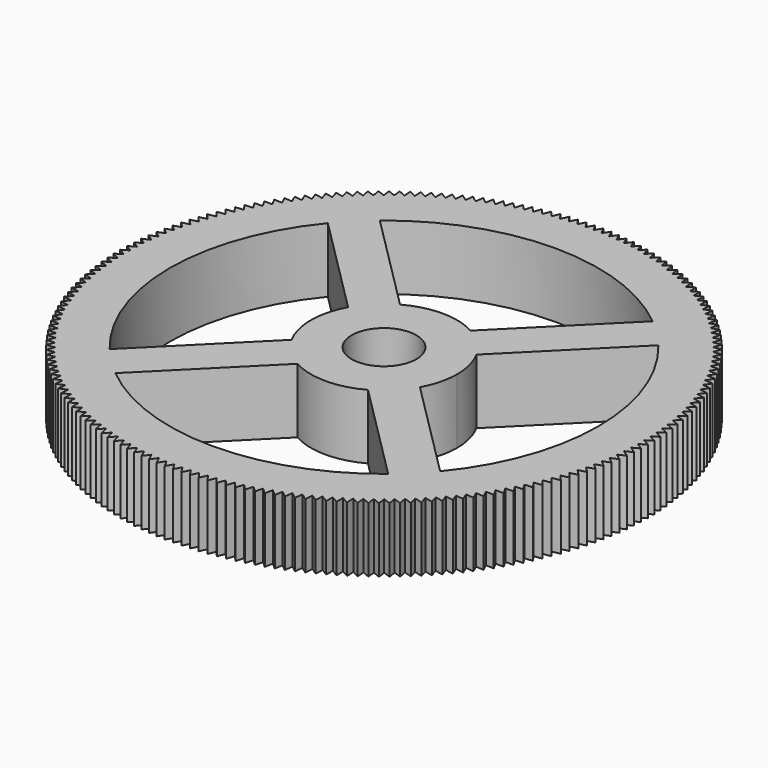
from build123d import *

# Parameters (mm, degrees)
F0_R     = 3.175
F1_DEPTH = 6.35


with BuildPart() as f1:
    # F0 (on Top) → F1 (new body)
    with BuildSketch(Plane.XY):
        Polygon((-0.8123144228, -25.848264049), (-0.3954962942, -25.176005228), (0, -25.8610249037), (0.3954962942, -25.176005228), (0.8123144228, -25.848264049), (1.1860985754, -25.1511595504), (1.6238271893, -25.8099940784), (1.9755303205, -25.1014927148), (2.4337374344, -25.7462527598), (2.7630124557, -25.0270537365), (3.2412458745, -25.657102998), (3.5477678312, -24.9279160777), (4.0455555962, -25.5426327732), (4.3290219882, -24.8041775753), (4.845872843, -25.4029550537), (5.1060039231, -24.6559603442), (5.6414077983, -25.2382076844), (5.8779468486, -24.4834106571), (6.4313753653, -25.0485532512), (6.6440889502, -24.2866987996), (7.2149959412, -24.8341789201), (7.4036741382, -24.0660189025), (7.9914961872, -24.5952962527), (8.1559527937, -23.8215887503), (8.7601097913, -24.3321409973), (8.9001825084, -23.553649566), (9.5200782246, -24.0449728564), (9.6356288175, -23.2624657732), (10.2706514902, -23.7340752303), (10.3615659243, -22.9483247353), (11.0110888626, -23.3997549374), (11.0772774165, -22.6115364714), (11.7406596198, -23.0423419114), (11.7820569733, -22.2524333509), (12.4586437634, -22.6621888759), (12.4752090623, -21.8713697653), (13.1643327297, -22.259670996), (13.1560496261, -21.4687217783), (13.857030089, -21.8351855083), (13.8239067573, -21.0448867549), (14.5360522326, -21.3891513287), (14.4781213615, -20.600282969), (15.2007290476, -20.922008639), (15.1180478078, -20.1353491909), (15.8504045782, -20.4342184528), (15.7430545662, -19.6505442541), (16.4844376731, -19.92626216), (16.3525248305, -19.1463466026), (17.1022026182, -19.3986410522), (16.945857127, -18.6232538186), (17.7030897542, -18.8518758277), (17.5224659084, -18.0817821314), (18.2865060778, -18.2865060778), (18.0817821314, -17.5224659084), (18.8518758277, -17.7030897542), (18.6232538186, -16.945857127), (19.3986410522, -17.1022026182), (19.1463466026, -16.3525248305), (19.92626216, -16.4844376731), (19.6505442541, -15.7430545662), (20.4342184528, -15.8504045782), (20.1353491909, -15.1180478078), (20.922008639, -15.2007290476), (20.600282969, -14.4781213615), (21.3891513287, -14.5360522326), (21.0448867549, -13.8239067573), (21.8351855083, -13.857030089), (21.4687217783, -13.1560496261), (22.259670996, -13.1643327297), (21.8713697653, -12.4752090623), (22.6621888759, -12.4586437634), (22.2524333509, -11.7820569733), (23.0423419114, -11.7406596198), (22.6115364714, -11.0772774165), (23.3997549374, -11.0110888626), (22.9483247353, -10.3615659243), (23.7340752303, -10.2706514902), (23.2624657732, -9.6356288175), (24.0449728564, -9.5200782246), (23.553649566, -8.9001825084), (24.3321409973, -8.7601097913), (23.8215887503, -8.1559527937), (24.5952962527, -7.9914961872), (24.0660189025, -7.4036741382), (24.8341789201, -7.2149959412), (24.2866987996, -6.6440889502), (25.0485532512, -6.4313753653), (24.4834106571, -5.8779468486), (25.2382076844, -5.6414077983), (24.6559603442, -5.1060039231), (25.4029550537, -4.845872843), (24.8041775753, -4.3290219882), (25.5426327732, -4.0455555962), (24.9279160777, -3.5477678312), (25.657102998, -3.2412458745), (25.0270537365, -2.7630124557), (25.7462527598, -2.4337374344), (25.1014927148, -1.9755303205), (25.8099940784, -1.6238271893), (25.1511595504, -1.1860985754), (25.848264049, -0.8123144228), (25.176005228, -0.3954962942), (25.8610249037, 0), (25.176005228, 0.3954962942), (25.848264049, 0.8123144228), (25.1511595504, 1.1860985754), (25.8099940784, 1.6238271893), (25.1014927148, 1.9755303205), (25.7462527598, 2.4337374344), (25.0270537365, 2.7630124557), (25.657102998, 3.2412458745), (24.9279160777, 3.5477678312), (25.5426327732, 4.0455555962), (24.8041775753, 4.3290219882), (25.4029550537, 4.845872843), (24.6559603442, 5.1060039231), (25.2382076844, 5.6414077983), (24.4834106571, 5.8779468486), (25.0485532512, 6.4313753653), (24.2866987996, 6.6440889502), (24.8341789201, 7.2149959412), (24.0660189025, 7.4036741382), (24.5952962527, 7.9914961872), (23.8215887503, 8.1559527937), (24.3321409973, 8.7601097913), (23.553649566, 8.9001825084), (24.0449728564, 9.5200782246), (23.2624657732, 9.6356288175), (23.7340752303, 10.2706514902), (22.9483247353, 10.3615659243), (23.3997549374, 11.0110888626), (22.6115364714, 11.0772774165), (23.0423419114, 11.7406596198), (22.2524333509, 11.7820569733), (22.6621888759, 12.4586437634), (21.8713697653, 12.4752090623), (22.259670996, 13.1643327297), (21.4687217783, 13.1560496261), (21.8351855083, 13.857030089), (21.0448867549, 13.8239067573), (21.3891513287, 14.5360522326), (20.600282969, 14.4781213615), (20.922008639, 15.2007290476), (20.1353491909, 15.1180478078), (20.4342184528, 15.8504045782), (19.6505442541, 15.7430545662), (19.92626216, 16.4844376731), (19.1463466026, 16.3525248305), (19.3986410522, 17.1022026182), (18.6232538186, 16.945857127), (18.8518758277, 17.7030897542), (18.0817821314, 17.5224659084), (18.2865060778, 18.2865060778), (17.5224659084, 18.0817821314), (17.7030897542, 18.8518758277), (16.945857127, 18.6232538186), (17.1022026182, 19.3986410522), (16.3525248305, 19.1463466026), (16.4844376731, 19.92626216), (15.7430545662, 19.6505442541), (15.8504045782, 20.4342184528), (15.1180478078, 20.1353491909), (15.2007290476, 20.922008639), (14.4781213615, 20.600282969), (14.5360522326, 21.3891513287), (13.8239067573, 21.0448867549), (13.857030089, 21.8351855083), (13.1560496261, 21.4687217783), (13.1643327297, 22.259670996), (12.4752090623, 21.8713697653), (12.4586437634, 22.6621888759), (11.7820569733, 22.2524333509), (11.7406596198, 23.0423419114), (11.0772774165, 22.6115364714), (11.0110888626, 23.3997549374), (10.3615659243, 22.9483247353), (10.2706514902, 23.7340752303), (9.6356288175, 23.2624657732), (9.5200782246, 24.0449728564), (8.9001825084, 23.553649566), (8.7601097913, 24.3321409973), (8.1559527937, 23.8215887503), (7.9914961872, 24.5952962527), (7.4036741382, 24.0660189025), (7.2149959412, 24.8341789201), (6.6440889502, 24.2866987996), (6.4313753653, 25.0485532512), (5.8779468486, 24.4834106571), (5.6414077983, 25.2382076844), (5.1060039231, 24.6559603442), (4.845872843, 25.4029550537), (4.3290219882, 24.8041775753), (4.0455555962, 25.5426327732), (3.5477678312, 24.9279160777), (3.2412458745, 25.657102998), (2.7630124557, 25.0270537365), (2.4337374344, 25.7462527598), (1.9755303205, 25.1014927148), (1.6238271893, 25.8099940784), (1.1860985754, 25.1511595504), (0.8123144228, 25.848264049), (0.3954962942, 25.176005228), (0, 25.8610249037), (-0.3954962942, 25.176005228), (-0.8123144228, 25.848264049), (-1.1860985754, 25.1511595504), (-1.6238271893, 25.8099940784), (-1.9755303205, 25.1014927148), (-2.4337374344, 25.7462527598), (-2.7630124557, 25.0270537365), (-3.2412458745, 25.657102998), (-3.5477678312, 24.9279160777), (-4.0455555962, 25.5426327732), (-4.3290219882, 24.8041775753), (-4.845872843, 25.4029550537), (-5.1060039231, 24.6559603442), (-5.6414077983, 25.2382076844), (-5.8779468486, 24.4834106571), (-6.4313753653, 25.0485532512), (-6.6440889502, 24.2866987996), (-7.2149959412, 24.8341789201), (-7.4036741382, 24.0660189025), (-7.9914961872, 24.5952962527), (-8.1559527937, 23.8215887503), (-8.7601097913, 24.3321409973), (-8.9001825084, 23.553649566), (-9.5200782246, 24.0449728564), (-9.6356288175, 23.2624657732), (-10.2706514902, 23.7340752303), (-10.3615659243, 22.9483247353), (-11.0110888626, 23.3997549374), (-11.0772774165, 22.6115364714), (-11.7406596198, 23.0423419114), (-11.7820569733, 22.2524333509), (-12.4586437634, 22.6621888759), (-12.4752090623, 21.8713697653), (-13.1643327297, 22.259670996), (-13.1560496261, 21.4687217783), (-13.857030089, 21.8351855083), (-13.8239067573, 21.0448867549), (-14.5360522326, 21.3891513287), (-14.4781213615, 20.600282969), (-15.2007290476, 20.922008639), (-15.1180478078, 20.1353491909), (-15.8504045782, 20.4342184528), (-15.7430545662, 19.6505442541), (-16.4844376731, 19.92626216), (-16.3525248305, 19.1463466026), (-17.1022026182, 19.3986410522), (-16.945857127, 18.6232538186), (-17.7030897542, 18.8518758277), (-17.5224659084, 18.0817821314), (-18.2865060778, 18.2865060778), (-18.0817821314, 17.5224659084), (-18.8518758277, 17.7030897542), (-18.6232538186, 16.945857127), (-19.3986410522, 17.1022026182), (-19.1463466026, 16.3525248305), (-19.92626216, 16.4844376731), (-19.6505442541, 15.7430545662), (-20.4342184528, 15.8504045782), (-20.1353491909, 15.1180478078), (-20.922008639, 15.2007290476), (-20.600282969, 14.4781213615), (-21.3891513287, 14.5360522326), (-21.0448867549, 13.8239067573), (-21.8351855083, 13.857030089), (-21.4687217783, 13.1560496261), (-22.259670996, 13.1643327297), (-21.8713697653, 12.4752090623), (-22.6621888759, 12.4586437634), (-22.2524333509, 11.7820569733), (-23.0423419114, 11.7406596198), (-22.6115364714, 11.0772774165), (-23.3997549374, 11.0110888626), (-22.9483247353, 10.3615659243), (-23.7340752303, 10.2706514902), (-23.2624657732, 9.6356288175), (-24.0449728564, 9.5200782246), (-23.553649566, 8.9001825084), (-24.3321409973, 8.7601097913), (-23.8215887503, 8.1559527937), (-24.5952962527, 7.9914961872), (-24.0660189025, 7.4036741382), (-24.8341789201, 7.2149959412), (-24.2866987996, 6.6440889502), (-25.0485532512, 6.4313753653), (-24.4834106571, 5.8779468486), (-25.2382076844, 5.6414077983), (-24.6559603442, 5.1060039231), (-25.4029550537, 4.845872843), (-24.8041775753, 4.3290219882), (-25.5426327732, 4.0455555962), (-24.9279160777, 3.5477678312), (-25.657102998, 3.2412458745), (-25.0270537365, 2.7630124557), (-25.7462527598, 2.4337374344), (-25.1014927148, 1.9755303205), (-25.8099940784, 1.6238271893), (-25.1511595504, 1.1860985754), (-25.848264049, 0.8123144228), (-25.176005228, 0.3954962942), (-25.8610249037, 0), (-25.176005228, -0.3954962942), (-25.848264049, -0.8123144228), (-25.1511595504, -1.1860985754), (-25.8099940784, -1.6238271893), (-25.1014927148, -1.9755303205), (-25.7462527598, -2.4337374344), (-25.0270537365, -2.7630124557), (-25.657102998, -3.2412458745), (-24.9279160777, -3.5477678312), (-25.5426327732, -4.0455555962), (-24.8041775753, -4.3290219882), (-25.4029550537, -4.845872843), (-24.6559603442, -5.1060039231), (-25.2382076844, -5.6414077983), (-24.4834106571, -5.8779468486), (-25.0485532512, -6.4313753653), (-24.2866987996, -6.6440889502), (-24.8341789201, -7.2149959412), (-24.0660189025, -7.4036741382), (-24.5952962527, -7.9914961872), (-23.8215887503, -8.1559527937), (-24.3321409973, -8.7601097913), (-23.553649566, -8.9001825084), (-24.0449728564, -9.5200782246), (-23.2624657732, -9.6356288175), (-23.7340752303, -10.2706514902), (-22.9483247353, -10.3615659243), (-23.3997549374, -11.0110888626), (-22.6115364714, -11.0772774165), (-23.0423419114, -11.7406596198), (-22.2524333509, -11.7820569733), (-22.6621888759, -12.4586437634), (-21.8713697653, -12.4752090623), (-22.259670996, -13.1643327297), (-21.4687217783, -13.1560496261), (-21.8351855083, -13.857030089), (-21.0448867549, -13.8239067573), (-21.3891513287, -14.5360522326), (-20.600282969, -14.4781213615), (-20.922008639, -15.2007290476), (-20.1353491909, -15.1180478078), (-20.4342184528, -15.8504045782), (-19.6505442541, -15.7430545662), (-19.92626216, -16.4844376731), (-19.1463466026, -16.3525248305), (-19.3986410522, -17.1022026182), (-18.6232538186, -16.945857127), (-18.8518758277, -17.7030897542), (-18.0817821314, -17.5224659084), (-18.2865060778, -18.2865060778), (-17.5224659084, -18.0817821314), (-17.7030897542, -18.8518758277), (-16.945857127, -18.6232538186), (-17.1022026182, -19.3986410522), (-16.3525248305, -19.1463466026), (-16.4844376731, -19.92626216), (-15.7430545662, -19.6505442541), (-15.8504045782, -20.4342184528), (-15.1180478078, -20.1353491909), (-15.2007290476, -20.922008639), (-14.4781213615, -20.600282969), (-14.5360522326, -21.3891513287), (-13.8239067573, -21.0448867549), (-13.857030089, -21.8351855083), (-13.1560496261, -21.4687217783), (-13.1643327297, -22.259670996), (-12.4752090623, -21.8713697653), (-12.4586437634, -22.6621888759), (-11.7820569733, -22.2524333509), (-11.7406596198, -23.0423419114), (-11.0772774165, -22.6115364714), (-11.0110888626, -23.3997549374), (-10.3615659243, -22.9483247353), (-10.2706514902, -23.7340752303), (-9.6356288175, -23.2624657732), (-9.5200782246, -24.0449728564), (-8.9001825084, -23.553649566), (-8.7601097913, -24.3321409973), (-8.1559527937, -23.8215887503), (-7.9914961872, -24.5952962527), (-7.4036741382, -24.0660189025), (-7.2149959412, -24.8341789201), (-6.6440889502, -24.2866987996), (-6.4313753653, -25.0485532512), (-5.8779468486, -24.4834106571), (-5.6414077983, -25.2382076844), (-5.1060039231, -24.6559603442), (-4.845872843, -25.4029550537), (-4.3290219882, -24.8041775753), (-4.0455555962, -25.5426327732), (-3.5477678312, -24.9279160777), (-3.2412458745, -25.657102998), (-2.7630124557, -25.0270537365), (-2.4337374344, -25.7462527598), (-1.9755303205, -25.1014927148), (-1.6238271893, -25.8099940784), (-1.1860985754, -25.1511595504), align=None)
        with BuildLine():
            ThreePointArc((13.3675319367, -16.1959590615), (0, -21), (-13.3675319367, -16.1959590615))
            ThreePointArc((-13.3675319367, -16.1959590615), (-14.8492424049, -14.8492424049), (-16.1959590615, -13.3675319367))
            ThreePointArc((-16.1959590615, -13.3675319367), (-21, 0), (-16.1959590615, 13.3675319367))
            ThreePointArc((-16.1959590615, 13.3675319367), (-14.8492424049, 14.8492424049), (-13.3675319367, 16.1959590615))
            ThreePointArc((-13.3675319367, 16.1959590615), (0, 21), (13.3675319367, 16.1959590615))
            ThreePointArc((13.3675319367, 16.1959590615), (14.8492424049, 14.8492424049), (16.1959590615, 13.3675319367))
            ThreePointArc((16.1959590615, 13.3675319367), (19.762529447, 7.1022834254), (21, 0))
            ThreePointArc((21, 0), (19.762529447, -7.1022834254), (16.1959590615, -13.3675319367))
            ThreePointArc((16.1959590615, -13.3675319367), (14.8492424049, -14.8492424049), (13.3675319367, -16.1959590615))
        make_face(mode=Mode.SUBTRACT)
        Polygon((-0.8123144228, -25.848264049), (-0.3954962942, -25.176005228), (0, -25.8610249037), (0.3954962942, -25.176005228), (0.8123144228, -25.848264049), (1.1860985754, -25.1511595504), (1.6238271893, -25.8099940784), (1.9755303205, -25.1014927148), (2.4337374344, -25.7462527598), (2.7630124557, -25.0270537365), (3.2412458745, -25.657102998), (3.5477678312, -24.9279160777), (4.0455555962, -25.5426327732), (4.3290219882, -24.8041775753), (4.845872843, -25.4029550537), (5.1060039231, -24.6559603442), (5.6414077983, -25.2382076844), (5.8779468486, -24.4834106571), (6.4313753653, -25.0485532512), (6.6440889502, -24.2866987996), (7.2149959412, -24.8341789201), (7.4036741382, -24.0660189025), (7.9914961872, -24.5952962527), (8.1559527937, -23.8215887503), (8.7601097913, -24.3321409973), (8.9001825084, -23.553649566), (9.5200782246, -24.0449728564), (9.6356288175, -23.2624657732), (10.2706514902, -23.7340752303), (10.3615659243, -22.9483247353), (11.0110888626, -23.3997549374), (11.0772774165, -22.6115364714), (11.7406596198, -23.0423419114), (11.7820569733, -22.2524333509), (12.4586437634, -22.6621888759), (12.4752090623, -21.8713697653), (13.1643327297, -22.259670996), (13.1560496261, -21.4687217783), (13.857030089, -21.8351855083), (13.8239067573, -21.0448867549), (14.5360522326, -21.3891513287), (14.4781213615, -20.600282969), (15.2007290476, -20.922008639), (15.1180478078, -20.1353491909), (15.8504045782, -20.4342184528), (15.7430545662, -19.6505442541), (16.4844376731, -19.92626216), (16.3525248305, -19.1463466026), (17.1022026182, -19.3986410522), (16.945857127, -18.6232538186), (17.7030897542, -18.8518758277), (17.5224659084, -18.0817821314), (18.2865060778, -18.2865060778), (18.0817821314, -17.5224659084), (18.8518758277, -17.7030897542), (18.6232538186, -16.945857127), (19.3986410522, -17.1022026182), (19.1463466026, -16.3525248305), (19.92626216, -16.4844376731), (19.6505442541, -15.7430545662), (20.4342184528, -15.8504045782), (20.1353491909, -15.1180478078), (20.922008639, -15.2007290476), (20.600282969, -14.4781213615), (21.3891513287, -14.5360522326), (21.0448867549, -13.8239067573), (21.8351855083, -13.857030089), (21.4687217783, -13.1560496261), (22.259670996, -13.1643327297), (21.8713697653, -12.4752090623), (22.6621888759, -12.4586437634), (22.2524333509, -11.7820569733), (23.0423419114, -11.7406596198), (22.6115364714, -11.0772774165), (23.3997549374, -11.0110888626), (22.9483247353, -10.3615659243), (23.7340752303, -10.2706514902), (23.2624657732, -9.6356288175), (24.0449728564, -9.5200782246), (23.553649566, -8.9001825084), (24.3321409973, -8.7601097913), (23.8215887503, -8.1559527937), (24.5952962527, -7.9914961872), (24.0660189025, -7.4036741382), (24.8341789201, -7.2149959412), (24.2866987996, -6.6440889502), (25.0485532512, -6.4313753653), (24.4834106571, -5.8779468486), (25.2382076844, -5.6414077983), (24.6559603442, -5.1060039231), (25.4029550537, -4.845872843), (24.8041775753, -4.3290219882), (25.5426327732, -4.0455555962), (24.9279160777, -3.5477678312), (25.657102998, -3.2412458745), (25.0270537365, -2.7630124557), (25.7462527598, -2.4337374344), (25.1014927148, -1.9755303205), (25.8099940784, -1.6238271893), (25.1511595504, -1.1860985754), (25.848264049, -0.8123144228), (25.176005228, -0.3954962942), (25.8610249037, 0), (25.176005228, 0.3954962942), (25.848264049, 0.8123144228), (25.1511595504, 1.1860985754), (25.8099940784, 1.6238271893), (25.1014927148, 1.9755303205), (25.7462527598, 2.4337374344), (25.0270537365, 2.7630124557), (25.657102998, 3.2412458745), (24.9279160777, 3.5477678312), (25.5426327732, 4.0455555962), (24.8041775753, 4.3290219882), (25.4029550537, 4.845872843), (24.6559603442, 5.1060039231), (25.2382076844, 5.6414077983), (24.4834106571, 5.8779468486), (25.0485532512, 6.4313753653), (24.2866987996, 6.6440889502), (24.8341789201, 7.2149959412), (24.0660189025, 7.4036741382), (24.5952962527, 7.9914961872), (23.8215887503, 8.1559527937), (24.3321409973, 8.7601097913), (23.553649566, 8.9001825084), (24.0449728564, 9.5200782246), (23.2624657732, 9.6356288175), (23.7340752303, 10.2706514902), (22.9483247353, 10.3615659243), (23.3997549374, 11.0110888626), (22.6115364714, 11.0772774165), (23.0423419114, 11.7406596198), (22.2524333509, 11.7820569733), (22.6621888759, 12.4586437634), (21.8713697653, 12.4752090623), (22.259670996, 13.1643327297), (21.4687217783, 13.1560496261), (21.8351855083, 13.857030089), (21.0448867549, 13.8239067573), (21.3891513287, 14.5360522326), (20.600282969, 14.4781213615), (20.922008639, 15.2007290476), (20.1353491909, 15.1180478078), (20.4342184528, 15.8504045782), (19.6505442541, 15.7430545662), (19.92626216, 16.4844376731), (19.1463466026, 16.3525248305), (19.3986410522, 17.1022026182), (18.6232538186, 16.945857127), (18.8518758277, 17.7030897542), (18.0817821314, 17.5224659084), (18.2865060778, 18.2865060778), (17.5224659084, 18.0817821314), (17.7030897542, 18.8518758277), (16.945857127, 18.6232538186), (17.1022026182, 19.3986410522), (16.3525248305, 19.1463466026), (16.4844376731, 19.92626216), (15.7430545662, 19.6505442541), (15.8504045782, 20.4342184528), (15.1180478078, 20.1353491909), (15.2007290476, 20.922008639), (14.4781213615, 20.600282969), (14.5360522326, 21.3891513287), (13.8239067573, 21.0448867549), (13.857030089, 21.8351855083), (13.1560496261, 21.4687217783), (13.1643327297, 22.259670996), (12.4752090623, 21.8713697653), (12.4586437634, 22.6621888759), (11.7820569733, 22.2524333509), (11.7406596198, 23.0423419114), (11.0772774165, 22.6115364714), (11.0110888626, 23.3997549374), (10.3615659243, 22.9483247353), (10.2706514902, 23.7340752303), (9.6356288175, 23.2624657732), (9.5200782246, 24.0449728564), (8.9001825084, 23.553649566), (8.7601097913, 24.3321409973), (8.1559527937, 23.8215887503), (7.9914961872, 24.5952962527), (7.4036741382, 24.0660189025), (7.2149959412, 24.8341789201), (6.6440889502, 24.2866987996), (6.4313753653, 25.0485532512), (5.8779468486, 24.4834106571), (5.6414077983, 25.2382076844), (5.1060039231, 24.6559603442), (4.845872843, 25.4029550537), (4.3290219882, 24.8041775753), (4.0455555962, 25.5426327732), (3.5477678312, 24.9279160777), (3.2412458745, 25.657102998), (2.7630124557, 25.0270537365), (2.4337374344, 25.7462527598), (1.9755303205, 25.1014927148), (1.6238271893, 25.8099940784), (1.1860985754, 25.1511595504), (0.8123144228, 25.848264049), (0.3954962942, 25.176005228), (0, 25.8610249037), (-0.3954962942, 25.176005228), (-0.8123144228, 25.848264049), (-1.1860985754, 25.1511595504), (-1.6238271893, 25.8099940784), (-1.9755303205, 25.1014927148), (-2.4337374344, 25.7462527598), (-2.7630124557, 25.0270537365), (-3.2412458745, 25.657102998), (-3.5477678312, 24.9279160777), (-4.0455555962, 25.5426327732), (-4.3290219882, 24.8041775753), (-4.845872843, 25.4029550537), (-5.1060039231, 24.6559603442), (-5.6414077983, 25.2382076844), (-5.8779468486, 24.4834106571), (-6.4313753653, 25.0485532512), (-6.6440889502, 24.2866987996), (-7.2149959412, 24.8341789201), (-7.4036741382, 24.0660189025), (-7.9914961872, 24.5952962527), (-8.1559527937, 23.8215887503), (-8.7601097913, 24.3321409973), (-8.9001825084, 23.553649566), (-9.5200782246, 24.0449728564), (-9.6356288175, 23.2624657732), (-10.2706514902, 23.7340752303), (-10.3615659243, 22.9483247353), (-11.0110888626, 23.3997549374), (-11.0772774165, 22.6115364714), (-11.7406596198, 23.0423419114), (-11.7820569733, 22.2524333509), (-12.4586437634, 22.6621888759), (-12.4752090623, 21.8713697653), (-13.1643327297, 22.259670996), (-13.1560496261, 21.4687217783), (-13.857030089, 21.8351855083), (-13.8239067573, 21.0448867549), (-14.5360522326, 21.3891513287), (-14.4781213615, 20.600282969), (-15.2007290476, 20.922008639), (-15.1180478078, 20.1353491909), (-15.8504045782, 20.4342184528), (-15.7430545662, 19.6505442541), (-16.4844376731, 19.92626216), (-16.3525248305, 19.1463466026), (-17.1022026182, 19.3986410522), (-16.945857127, 18.6232538186), (-17.7030897542, 18.8518758277), (-17.5224659084, 18.0817821314), (-18.2865060778, 18.2865060778), (-18.0817821314, 17.5224659084), (-18.8518758277, 17.7030897542), (-18.6232538186, 16.945857127), (-19.3986410522, 17.1022026182), (-19.1463466026, 16.3525248305), (-19.92626216, 16.4844376731), (-19.6505442541, 15.7430545662), (-20.4342184528, 15.8504045782), (-20.1353491909, 15.1180478078), (-20.922008639, 15.2007290476), (-20.600282969, 14.4781213615), (-21.3891513287, 14.5360522326), (-21.0448867549, 13.8239067573), (-21.8351855083, 13.857030089), (-21.4687217783, 13.1560496261), (-22.259670996, 13.1643327297), (-21.8713697653, 12.4752090623), (-22.6621888759, 12.4586437634), (-22.2524333509, 11.7820569733), (-23.0423419114, 11.7406596198), (-22.6115364714, 11.0772774165), (-23.3997549374, 11.0110888626), (-22.9483247353, 10.3615659243), (-23.7340752303, 10.2706514902), (-23.2624657732, 9.6356288175), (-24.0449728564, 9.5200782246), (-23.553649566, 8.9001825084), (-24.3321409973, 8.7601097913), (-23.8215887503, 8.1559527937), (-24.5952962527, 7.9914961872), (-24.0660189025, 7.4036741382), (-24.8341789201, 7.2149959412), (-24.2866987996, 6.6440889502), (-25.0485532512, 6.4313753653), (-24.4834106571, 5.8779468486), (-25.2382076844, 5.6414077983), (-24.6559603442, 5.1060039231), (-25.4029550537, 4.845872843), (-24.8041775753, 4.3290219882), (-25.5426327732, 4.0455555962), (-24.9279160777, 3.5477678312), (-25.657102998, 3.2412458745), (-25.0270537365, 2.7630124557), (-25.7462527598, 2.4337374344), (-25.1014927148, 1.9755303205), (-25.8099940784, 1.6238271893), (-25.1511595504, 1.1860985754), (-25.848264049, 0.8123144228), (-25.176005228, 0.3954962942), (-25.8610249037, 0), (-25.176005228, -0.3954962942), (-25.848264049, -0.8123144228), (-25.1511595504, -1.1860985754), (-25.8099940784, -1.6238271893), (-25.1014927148, -1.9755303205), (-25.7462527598, -2.4337374344), (-25.0270537365, -2.7630124557), (-25.657102998, -3.2412458745), (-24.9279160777, -3.5477678312), (-25.5426327732, -4.0455555962), (-24.8041775753, -4.3290219882), (-25.4029550537, -4.845872843), (-24.6559603442, -5.1060039231), (-25.2382076844, -5.6414077983), (-24.4834106571, -5.8779468486), (-25.0485532512, -6.4313753653), (-24.2866987996, -6.6440889502), (-24.8341789201, -7.2149959412), (-24.0660189025, -7.4036741382), (-24.5952962527, -7.9914961872), (-23.8215887503, -8.1559527937), (-24.3321409973, -8.7601097913), (-23.553649566, -8.9001825084), (-24.0449728564, -9.5200782246), (-23.2624657732, -9.6356288175), (-23.7340752303, -10.2706514902), (-22.9483247353, -10.3615659243), (-23.3997549374, -11.0110888626), (-22.6115364714, -11.0772774165), (-23.0423419114, -11.7406596198), (-22.2524333509, -11.7820569733), (-22.6621888759, -12.4586437634), (-21.8713697653, -12.4752090623), (-22.259670996, -13.1643327297), (-21.4687217783, -13.1560496261), (-21.8351855083, -13.857030089), (-21.0448867549, -13.8239067573), (-21.3891513287, -14.5360522326), (-20.600282969, -14.4781213615), (-20.922008639, -15.2007290476), (-20.1353491909, -15.1180478078), (-20.4342184528, -15.8504045782), (-19.6505442541, -15.7430545662), (-19.92626216, -16.4844376731), (-19.1463466026, -16.3525248305), (-19.3986410522, -17.1022026182), (-18.6232538186, -16.945857127), (-18.8518758277, -17.7030897542), (-18.0817821314, -17.5224659084), (-18.2865060778, -18.2865060778), (-17.5224659084, -18.0817821314), (-17.7030897542, -18.8518758277), (-16.945857127, -18.6232538186), (-17.1022026182, -19.3986410522), (-16.3525248305, -19.1463466026), (-16.4844376731, -19.92626216), (-15.7430545662, -19.6505442541), (-15.8504045782, -20.4342184528), (-15.1180478078, -20.1353491909), (-15.2007290476, -20.922008639), (-14.4781213615, -20.600282969), (-14.5360522326, -21.3891513287), (-13.8239067573, -21.0448867549), (-13.857030089, -21.8351855083), (-13.1560496261, -21.4687217783), (-13.1643327297, -22.259670996), (-12.4752090623, -21.8713697653), (-12.4586437634, -22.6621888759), (-11.7820569733, -22.2524333509), (-11.7406596198, -23.0423419114), (-11.0772774165, -22.6115364714), (-11.0110888626, -23.3997549374), (-10.3615659243, -22.9483247353), (-10.2706514902, -23.7340752303), (-9.6356288175, -23.2624657732), (-9.5200782246, -24.0449728564), (-8.9001825084, -23.553649566), (-8.7601097913, -24.3321409973), (-8.1559527937, -23.8215887503), (-7.9914961872, -24.5952962527), (-7.4036741382, -24.0660189025), (-7.2149959412, -24.8341789201), (-6.6440889502, -24.2866987996), (-6.4313753653, -25.0485532512), (-5.8779468486, -24.4834106571), (-5.6414077983, -25.2382076844), (-5.1060039231, -24.6559603442), (-4.845872843, -25.4029550537), (-4.3290219882, -24.8041775753), (-4.0455555962, -25.5426327732), (-3.5477678312, -24.9279160777), (-3.2412458745, -25.657102998), (-2.7630124557, -25.0270537365), (-2.4337374344, -25.7462527598), (-1.9755303205, -25.1014927148), (-1.6238271893, -25.8099940784), (-1.1860985754, -25.1511595504), align=None)
        with BuildLine():
            ThreePointArc((13.3675319367, -16.1959590615), (0, -21), (-13.3675319367, -16.1959590615))
            ThreePointArc((-13.3675319367, -16.1959590615), (-14.8492424049, -14.8492424049), (-16.1959590615, -13.3675319367))
            ThreePointArc((-16.1959590615, -13.3675319367), (-21, 0), (-16.1959590615, 13.3675319367))
            ThreePointArc((-16.1959590615, 13.3675319367), (-14.8492424049, 14.8492424049), (-13.3675319367, 16.1959590615))
            ThreePointArc((-13.3675319367, 16.1959590615), (0, 21), (13.3675319367, 16.1959590615))
            ThreePointArc((13.3675319367, 16.1959590615), (14.8492424049, 14.8492424049), (16.1959590615, 13.3675319367))
            ThreePointArc((16.1959590615, 13.3675319367), (19.762529447, 7.1022834254), (21, 0))
            ThreePointArc((21, 0), (19.762529447, -7.1022834254), (16.1959590615, -13.3675319367))
            ThreePointArc((16.1959590615, -13.3675319367), (14.8492424049, -14.8492424049), (13.3675319367, -16.1959590615))
        make_face(mode=Mode.SUBTRACT)
        with BuildLine():
            ThreePointArc((-6.2866167169, -3.4581895921), (-5.073491155, -5.073491155), (-3.4581895921, -6.2866167169))
            ThreePointArc((-3.4581895921, -6.2866167169), (0, -7.175), (3.4581895921, -6.2866167169))
            ThreePointArc((3.4581895921, -6.2866167169), (5.073491155, -5.073491155), (6.2866167169, -3.4581895921))
            ThreePointArc((6.2866167169, -3.4581895921), (6.9493560832, -1.7852380873), (7.175, 0))
            ThreePointArc((7.175, 0), (6.9493560832, 1.7852380873), (6.2866167169, 3.4581895921))
            ThreePointArc((6.2866167169, 3.4581895921), (5.073491155, 5.073491155), (3.4581895921, 6.2866167169))
            ThreePointArc((3.4581895921, 6.2866167169), (0, 7.175), (-3.4581895921, 6.2866167169))
            ThreePointArc((-3.4581895921, 6.2866167169), (-5.073491155, 5.073491155), (-6.2866167169, 3.4581895921))
            ThreePointArc((-6.2866167169, 3.4581895921), (-7.175, 0), (-6.2866167169, -3.4581895921))
        make_face()
        Circle(F0_R, mode=Mode.SUBTRACT)
        with BuildLine():
            Line((-13.3675319367, -16.1959590615), (-3.4581895921, -6.2866167169))
            ThreePointArc((-3.4581895921, -6.2866167169), (-5.073491155, -5.073491155), (-6.2866167169, -3.4581895921))
            Line((-6.2866167169, -3.4581895921), (-16.1959590615, -13.3675319367))
            ThreePointArc((-16.1959590615, -13.3675319367), (-14.8492424049, -14.8492424049), (-13.3675319367, -16.1959590615))
        make_face()
        with BuildLine():
            ThreePointArc((6.2866167169, -3.4581895921), (5.073491155, -5.073491155), (3.4581895921, -6.2866167169))
            Line((3.4581895921, -6.2866167169), (13.3675319367, -16.1959590615))
            ThreePointArc((13.3675319367, -16.1959590615), (14.8492424049, -14.8492424049), (16.1959590615, -13.3675319367))
            Line((16.1959590615, -13.3675319367), (6.2866167169, -3.4581895921))
        make_face()
        with BuildLine():
            Line((13.3675319367, 16.1959590615), (3.4581895921, 6.2866167169))
            ThreePointArc((3.4581895921, 6.2866167169), (5.073491155, 5.073491155), (6.2866167169, 3.4581895921))
            Line((6.2866167169, 3.4581895921), (16.1959590615, 13.3675319367))
            ThreePointArc((16.1959590615, 13.3675319367), (14.8492424049, 14.8492424049), (13.3675319367, 16.1959590615))
        make_face()
        with BuildLine():
            Line((-16.1959590615, 13.3675319367), (-6.2866167169, 3.4581895921))
            ThreePointArc((-6.2866167169, 3.4581895921), (-5.073491155, 5.073491155), (-3.4581895921, 6.2866167169))
            Line((-3.4581895921, 6.2866167169), (-13.3675319367, 16.1959590615))
            ThreePointArc((-13.3675319367, 16.1959590615), (-14.8492424049, 14.8492424049), (-16.1959590615, 13.3675319367))
        make_face()
    extrude(amount=F1_DEPTH)


solid = f1.part
